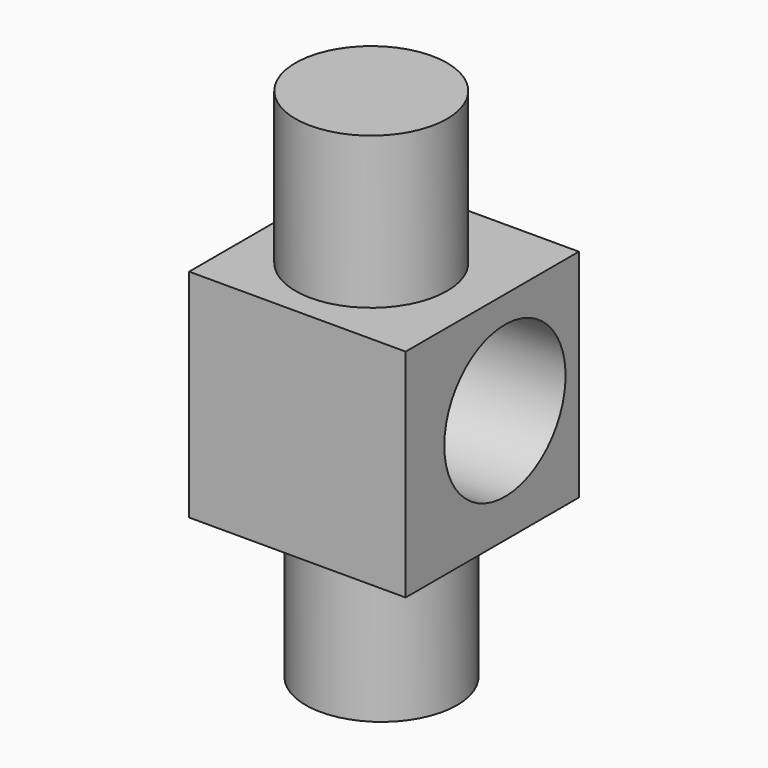
from build123d import *

# Parameters (mm, degrees)
F0_W     = 100
F0_H     = 100
F1_DEPTH = 100
F2_R     = 35
F3_DEPTH = 70
F4_R     = 35
F5_DEPTH = 70
F7_D     = 70


with BuildPart() as f1:
    # F0 (on Front) → F1 (new body)
    with BuildSketch(Plane.XZ):
        with Locations((50, 50)):
            Rectangle(F0_W, F0_H)
    extrude(amount=F1_DEPTH)

    # F2 (on face) → F3 (join)
    with BuildSketch(Plane(origin=(0, 0, 0), x_dir=(1, 0, 0), z_dir=(0, 0, -1))):
        with Locations((48.01549, 49.015835)):
            Circle(F2_R)
    extrude(amount=F3_DEPTH)

    # F4 (on face) → F5 (join)
    with BuildSketch(Plane.XY.offset(100)):
        with Locations((47.09832, -53.716522)):
            Circle(F4_R)
    extrude(amount=F5_DEPTH)

    # F7 (through all)
    with Locations(Plane.YZ.offset(100)):
        with Locations((-42.680413, 52.683681)):
            Hole(F7_D / 2)


solid = f1.part
